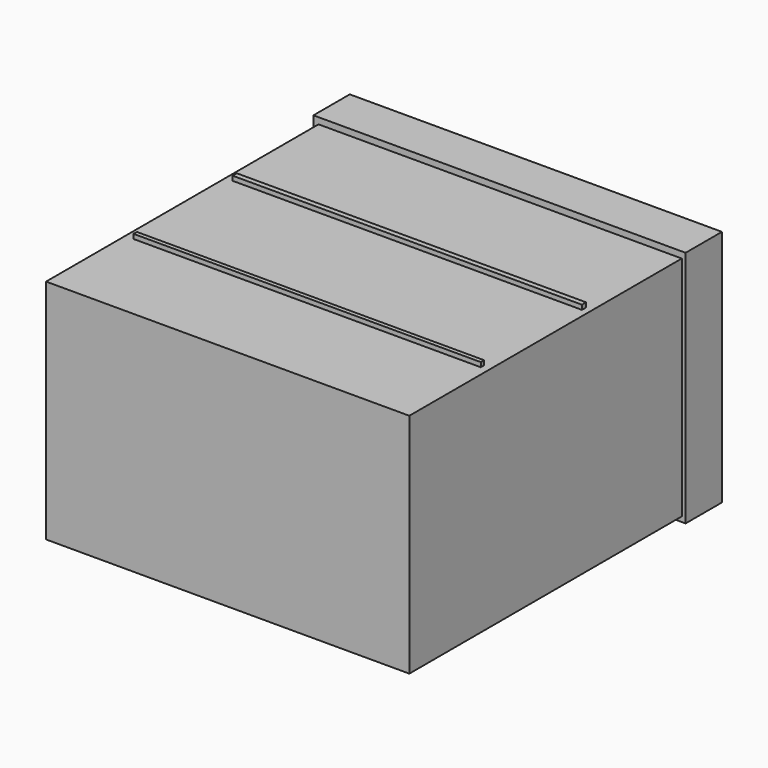
from build123d import *

# Parameters (mm, degrees)
SKETCH_W      = 800
SKETCH_H      = 500
PAD_DEPTH     = 850
SKETCH001_W   = 511.727677
SKETCH001_H   = 463.29253
PAD001_DEPTH  = 10
POCKET_DEPTH  = 220
SKETCH003_R   = 24.194915
PAD002_DEPTH  = 200
SKETCH004_W   = 56.527466
SKETCH004_H   = 197.218046
PAD003_DEPTH  = 20
SKETCH005_W   = 819.629583
SKETCH005_H   = 524.761626
SKETCH005_W_2 = 475.380982
SKETCH005_H_2 = 411.07835
PAD004_DEPTH  = 100
SKETCH006_W   = 769.3365
SKETCH006_H   = 11.482666
SKETCH006_W_2 = 764.743431
SKETCH006_H_2 = 9.186035
PAD005_DEPTH  = 10


with BuildPart() as part:
    # Sketch → Pad (new body)
    with BuildSketch(Plane.XZ):
        with Locations((400, 250)):
            Rectangle(SKETCH_W, SKETCH_H)
    extrude(amount=PAD_DEPTH)

    # Sketch001 (on Face5 of Pad) → Pad001 (join)
    with BuildSketch(Plane(origin=(0, 0, 0), x_dir=(1, 0, 0), z_dir=(0, 1, 0))):
        with Locations((400.552361, -244.345876)):
            Rectangle(SKETCH001_W, SKETCH001_H)
    extrude(amount=PAD001_DEPTH)

    # Sketch002 (on Face11 of Pad001) → Pocket (cut)
    with BuildSketch(Plane(origin=(0, 10, 0), x_dir=(1, 0, 0), z_dir=(0, 1, 0))):
        with BuildLine():
            Line((181.290512, -129.286423), (181.290512, -404.444153))
            ThreePointArc((181.290512, -404.444153), (195.935173, -439.799492), (231.290512, -454.444153))
            Line((231.290512, -454.444153), (577.500916, -454.444153))
            ThreePointArc((577.500916, -454.444153), (612.856255, -439.799492), (627.500916, -404.444153))
            Line((627.500916, -404.444153), (627.500916, -129.286423))
            ThreePointArc((627.500916, -129.286423), (612.856255, -93.931084), (577.500916, -79.286423))
            Line((577.500916, -79.286423), (231.290512, -79.286423))
            ThreePointArc((231.290512, -79.286423), (195.935173, -93.931084), (181.290512, -129.286423))
        make_face()
    extrude(amount=-POCKET_DEPTH, mode=Mode.SUBTRACT)

    # Sketch003 (on Face11 of Pocket) → Pad002 (join)
    with BuildSketch(Plane(origin=(0, 10, 0), x_dir=(1, 0, 0), z_dir=(0, 1, 0))):
        with Locations((399.065338, -48.817406)):
            Circle(SKETCH003_R)
    extrude(amount=PAD002_DEPTH)

    # Sketch004 (on Face21 of Pad002) → Pad003 (join)
    with BuildSketch(Plane(origin=(0, 210, 0), x_dir=(1, 0, 0), z_dir=(0, 1, 0))):
        with Locations((399.339508, -115.610719)):
            Rectangle(SKETCH004_W, SKETCH004_H)
    extrude(amount=PAD003_DEPTH)

    # Sketch005 (on Face4 of Pad003) → Pad004 (join)
    with BuildSketch(Plane(origin=(0, 0, 0), x_dir=(1, 0, 0), z_dir=(0, 1, 0))):
        with Locations((398.620938, -251.461533)):
            Rectangle(SKETCH005_W, SKETCH005_H)
        with Locations((403.098633, -266.965067)):
            Rectangle(SKETCH005_W_2, SKETCH005_H_2, mode=Mode.SUBTRACT)
    extrude(amount=-PAD004_DEPTH)

    # Sketch006 (on Face8 of Pad004) → Pad005 (join)
    with BuildSketch(Plane(origin=(0, 0, 500), x_dir=(-1, 0, 0), z_dir=(0, 0, 1))):
        with Locations((-400.80227, 350.871674)):
            Rectangle(SKETCH006_W, SKETCH006_H)
        with Locations((-400.802265, 627.603149)):
            Rectangle(SKETCH006_W_2, SKETCH006_H_2)
    extrude(amount=PAD005_DEPTH)


solid = part.part
